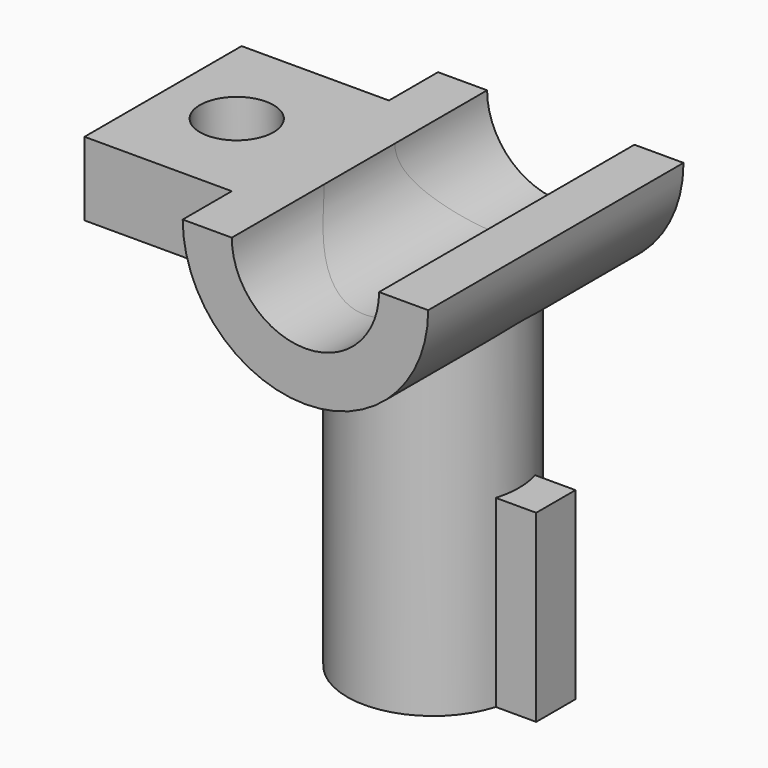
from build123d import *

# Parameters (mm, degrees)
F1_DEPTH  = 6.5
F2_W      = 8
F2_H      = 8
F3_DEPTH  = 3
F4_R      = 3.5
F5_DEPTH  = 17
F6_R      = 3
F7_DEPTH  = 9.3
F8_R      = 2
F9_DEPTH  = 12
F10_R     = 1.5
F11_DEPTH = 17.001
F13_DEPTH = 7.5


with BuildPart() as f1:
    # F0 (on Front) → F1 (new body, symmetric)
    with BuildSketch(Plane.XZ):
        with BuildLine():
            Line((-3, 0), (-5, 0))
            ThreePointArc((-5, 0), (0, -5), (5, 0))
            Line((5, 0), (3, 0))
            ThreePointArc((3, 0), (0, -3), (-3, 0))
        make_face()
    extrude(amount=F1_DEPTH, both=True)

    # F2 (on Top) → F3 (join)
    with BuildSketch(Plane.XY):
        with Locations((-7, 0)):
            Rectangle(F2_W, F2_H)
    extrude(amount=-F3_DEPTH)

    # F4 (on Top) → F5 (join)
    with BuildSketch(Plane.XY):
        Circle(F4_R)
    extrude(amount=-F5_DEPTH)

    # F6 (on Front) → F7 (cut, symmetric)
    with BuildSketch(Plane.XZ):
        Circle(F6_R)
    extrude(amount=F7_DEPTH, both=True, mode=Mode.SUBTRACT)

    # F8 (on face) → F9 (cut)
    with BuildSketch(Plane(origin=(0, 0, -17), x_dir=(1, 0, 0), z_dir=(0, 0, -1))):
        Circle(F8_R)
    extrude(amount=-F9_DEPTH, mode=Mode.SUBTRACT)

    # F10 (on face) → F11 (cut, through all)
    with BuildSketch(Plane.XY):
        with Locations((-8, 0)):
            Circle(F10_R)
    extrude(amount=-F11_DEPTH, mode=Mode.SUBTRACT)

    # F12 (on face) → F13 (join)
    with BuildSketch(Plane(origin=(0, 0, -17), x_dir=(1, 0, 0), z_dir=(0, 0, -1))):
        with BuildLine():
            ThreePointArc((3.354102, 1), (3.5, 0), (3.354102, -1))
            Line((3.354102, -1), (5, -1))
            Line((5, -1), (5, 1))
            Line((5, 1), (3.354102, 1))
        make_face()
    extrude(amount=-F13_DEPTH)


solid = f1.part
